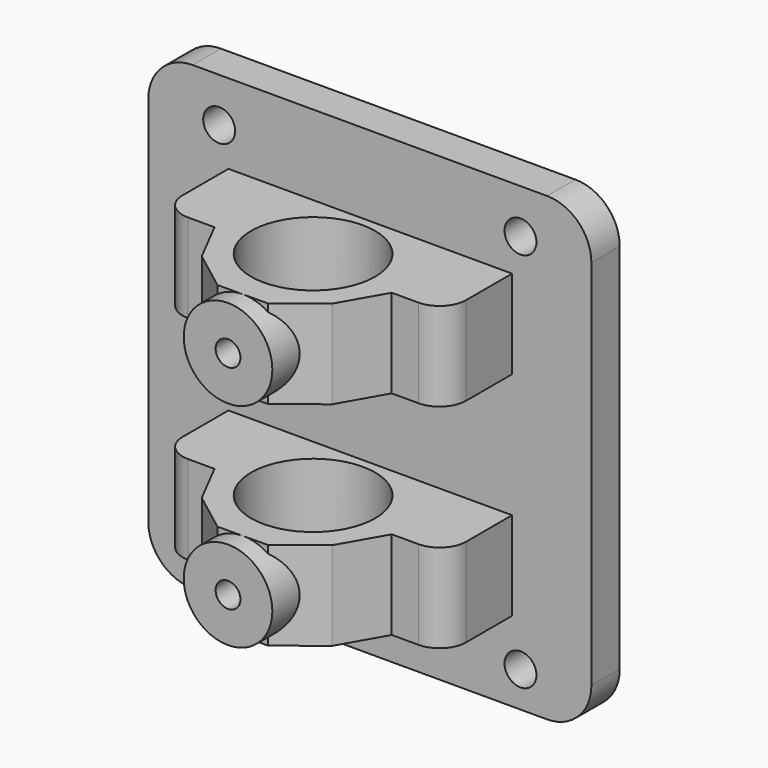
from build123d import *

# Parameters (mm, degrees)
BOX058_W                = 50
BOX058_H                = 37
BOX058_DEPTH            = 48
BOX057_W                = 59
BOX057_H                = 68
BOX057_DEPTH            = 48
BOX056_W                = 3
BOX056_H                = 6
BOX056_DEPTH            = 23
CYLINDER114_R           = 1.4
CYLINDER114_DEPTH       = 10
CYLINDER114_ROLL_ANGLE  = 90
CYLINDER116_R           = 1.4
CYLINDER116_DEPTH       = 10
CYLINDER116_ROLL_ANGLE  = 90
CYLINDER113_R           = 5
CYLINDER113_DEPTH       = 5
CYLINDER113_ROLL_ANGLE  = 90
CYLINDER112_R           = 3
CYLINDER112_DEPTH       = 180
CYLINDER112_PITCH_ANGLE = 90
PAD056_DEPTH            = 10
PAD055_DEPTH            = 10
CYLINDER110_R           = 7.5
CYLINDER110_DEPTH       = 180
CYLINDER110_PITCH_ANGLE = 90
CYLINDER111_R           = 7
CYLINDER111_DEPTH       = 120
PAD054_DEPTH            = 10
PAD053_DEPTH            = 10
BOX055_W                = 32
BOX055_H                = 23
BOX055_DEPTH            = 22
FILLET045_R             = 5
FILLET046_R             = 8
FILLET047_R             = 8
FILLET048_R             = 3
FILLET049_R             = 1
FILLET050_R             = 1
FILLET051_R             = 1
FILLET052_R             = 1
CYLINDER115_R           = 5
CYLINDER115_DEPTH       = 5
CYLINDER115_ROLL_ANGLE  = 90
BOX048_W                = 50
BOX048_H                = 37
BOX048_DEPTH            = 48
BOX046_W                = 59
BOX046_H                = 68
BOX046_DEPTH            = 48
BOX040_W                = 3
BOX040_H                = 6
BOX040_DEPTH            = 23
CYLINDER082_R           = 1.4
CYLINDER082_DEPTH       = 10
CYLINDER082_ROLL_ANGLE  = 90
CYLINDER084_R           = 1.4
CYLINDER084_DEPTH       = 10
CYLINDER084_ROLL_ANGLE  = 90
CYLINDER081_R           = 5
CYLINDER081_DEPTH       = 5
CYLINDER081_ROLL_ANGLE  = 90
CYLINDER080_R           = 3
CYLINDER080_DEPTH       = 180
CYLINDER080_PITCH_ANGLE = 90
PAD044_DEPTH            = 10
PAD043_DEPTH            = 10
CYLINDER075_R           = 7.5
CYLINDER075_DEPTH       = 180
CYLINDER075_PITCH_ANGLE = 90
CYLINDER077_R           = 7
CYLINDER077_DEPTH       = 120
PAD042_DEPTH            = 10
PAD_DEPTH               = 10
BOX039_W                = 32
BOX039_H                = 23
BOX039_DEPTH            = 22
FILLET021_R             = 5
FILLET022_R             = 8
FILLET023_R             = 8
FILLET024_R             = 3
FILLET025_R             = 1
FILLET026_R             = 1
FILLET027_R             = 1
FILLET028_R             = 1
CYLINDER083_R           = 5
CYLINDER083_DEPTH       = 5
CYLINDER083_ROLL_ANGLE  = 90
CYLINDER103_R           = 1.8
CYLINDER103_DEPTH       = 34
CYLINDER103_ROLL_ANGLE  = 90
CYLINDER102_R           = 1.8
CYLINDER102_DEPTH       = 34
CYLINDER102_ROLL_ANGLE  = 90
CYLINDER105_R           = 1.8
CYLINDER105_DEPTH       = 34
CYLINDER105_ROLL_ANGLE  = 90
CYLINDER104_R           = 1.8
CYLINDER104_DEPTH       = 34
CYLINDER104_ROLL_ANGLE  = 90
BOX053_W                = 50
BOX053_H                = 4
BOX053_DEPTH            = 52
FILLET053_R             = 5


with BuildPart() as cubo053:
    # Box058 → Box058 (new body)
    with BuildSketch(Plane(origin=(8, -47, 80), x_dir=(1, 0, 0), z_dir=(0, 0, 1))):
        with Locations((25, 18.5)):
            Rectangle(BOX058_W, BOX058_H)
    extrude(amount=BOX058_DEPTH)


with BuildPart() as cubo052:
    # Box057 → Box057 (new body)
    with BuildSketch(Plane(origin=(0, -19, 64), x_dir=(1, 0, 0), z_dir=(0, 0, 1))):
        with Locations((29.5, 34)):
            Rectangle(BOX057_W, BOX057_H)
    extrude(amount=BOX057_DEPTH)


with BuildPart() as cubo051:
    # Box056 → Box056 (new body)
    with BuildSketch(Plane(origin=(17, -11, 79), x_dir=(1, 0, 0), z_dir=(0, 0, 1))):
        with Locations((1.5, 3)):
            Rectangle(BOX056_W, BOX056_H)
    extrude(amount=BOX056_DEPTH)


with BuildPart() as cilindro068:
    # Cylinder114 → Cylinder114 (new body)
    with BuildSketch(Plane.XY):
        Circle(CYLINDER114_R)
    extrude(amount=CYLINDER114_DEPTH)


with BuildPart() as cilindro068_1:
    # Cylinder114 roll: moved
    add(cilindro068.part.rotate(Axis((0, 0, 0), (1, 0, 0)), CYLINDER114_ROLL_ANGLE))


with BuildPart() as cilindro068_2:
    # Cylinder114 placement: moved
    add(cilindro068_1.part.moved(Location((33, -27, 105))))


with BuildPart() as cilindro070:
    # Cylinder116 → Cylinder116 (new body)
    with BuildSketch(Plane.XY):
        Circle(CYLINDER116_R)
    extrude(amount=CYLINDER116_DEPTH)


with BuildPart() as cilindro070_1:
    # Cylinder116 roll: moved
    add(cilindro070.part.rotate(Axis((0, 0, 0), (1, 0, 0)), CYLINDER116_ROLL_ANGLE))


with BuildPart() as cilindro070_2:
    # Cylinder116 placement: moved
    add(cilindro070_1.part.moved(Location((33, -27, 75))))


with BuildPart() as cilindro067:
    # Cylinder113 → Cylinder113 (new body)
    with BuildSketch(Plane.XY):
        Circle(CYLINDER113_R)
    extrude(amount=CYLINDER113_DEPTH)


with BuildPart() as cilindro067_1:
    # Cylinder113 roll: moved
    add(cilindro067.part.rotate(Axis((0, 0, 0), (1, 0, 0)), CYLINDER113_ROLL_ANGLE))


with BuildPart() as cilindro067_2:
    # Cylinder113 placement: moved
    add(cilindro067_1.part.moved(Location((33, -31, 105))))


with BuildPart() as m033:
    # Cylinder112 → Cylinder112 (new body)
    with BuildSketch(Plane.XY):
        Circle(CYLINDER112_R)
    extrude(amount=CYLINDER112_DEPTH)


with BuildPart() as m033_1:
    # Cylinder112 pitch: moved
    add(m033.part.rotate(Axis((0, 0, 0), (0, 1, 0)), CYLINDER112_PITCH_ANGLE))


with BuildPart() as m033_2:
    # Cylinder112 placement: moved
    add(m033_1.part.moved(Location((-12, 9, 100))))


with BuildPart() as pad056:
    # Sketch063 → Pad056 (new body)
    with BuildSketch(Plane(origin=(43, 9, 0), x_dir=(0, 1, 0), z_dir=(1, 0, 0))):
        Polygon((-4.713422, 99.981385), (-2.357765, 95.901267), (2.35355, 95.901267), (4.709208, 99.981385), (2.35355, 104.061504), (-2.357765, 104.061504), align=None)
    extrude(amount=PAD056_DEPTH)


with BuildPart() as pad055:
    # Sketch062 → Pad055 (new body)
    with BuildSketch(Plane(origin=(13, 9, 0), x_dir=(0, 1, 0), z_dir=(1, 0, 0))):
        Polygon((-4.713422, 99.981385), (-2.357765, 95.901267), (2.35355, 95.901267), (4.709208, 99.981385), (2.35355, 104.061504), (-2.357765, 104.061504), align=None)
    extrude(amount=PAD055_DEPTH)


with BuildPart() as m032:
    # Cylinder110 → Cylinder110 (new body)
    with BuildSketch(Plane.XY):
        Circle(CYLINDER110_R)
    extrude(amount=CYLINDER110_DEPTH)


with BuildPart() as m032_1:
    # Cylinder110 pitch: moved
    add(m032.part.rotate(Axis((0, 0, 0), (0, 1, 0)), CYLINDER110_PITCH_ANGLE))


with BuildPart() as m032_2:
    # Cylinder110 placement: moved
    add(m032_1.part.moved(Location((-12, 12, 80))))


with BuildPart() as cilindro066:
    # Cylinder111 → Cylinder111 (new body)
    with BuildSketch(Plane(origin=(33, -24, 41), x_dir=(1, 0, 0), z_dir=(0, 0, 1))):
        Circle(CYLINDER111_R)
    extrude(amount=CYLINDER111_DEPTH)


with BuildPart() as pad054:
    # Sketch061 → Pad054 (new body)
    with BuildSketch(Plane.XY.offset(100)):
        Polygon((23.049006, -25.471541), (25.637042, -30.500033), (30.141413, -33.919727), (35.796642, -33.874552), (40.245807, -30.383337), (43.049006, -25.471541), (49.049006, -25.471541), (49.049006, 22.988138), (17.049006, 22.988138), (17.049006, -25.471541), align=None)
        with BuildLine():
            ThreePointArc((26.014116, -2.124694), (20.116872, -8.021937), (26.014116, -13.919181))
            Line((26.014116, -13.919181), (40.6833, -13.919181))
            ThreePointArc((40.6833, -13.919181), (46.580544, -8.021937), (40.6833, -2.124694))
            Line((26.014116, -2.124694), (40.6833, -2.124694))
        make_face(mode=Mode.SUBTRACT)
    extrude(amount=PAD054_DEPTH)


with BuildPart() as pad053:
    # Sketch060 → Pad053 (new body)
    with BuildSketch(Plane.XY.offset(70)):
        Polygon((23.049006, -25.471541), (25.637042, -30.500033), (30.141413, -33.919727), (35.796642, -33.874552), (40.245807, -30.383337), (43.049006, -25.471541), (49.049006, -25.471541), (49.049006, 22.988138), (17.049006, 22.988138), (17.049006, -25.471541), align=None)
        with BuildLine():
            ThreePointArc((26.014116, -2.124694), (20.116872, -8.021937), (26.014116, -13.919181))
            Line((26.014116, -13.919181), (40.6833, -13.919181))
            ThreePointArc((40.6833, -13.919181), (46.580544, -8.021937), (40.6833, -2.124694))
            Line((26.014116, -2.124694), (40.6833, -2.124694))
        make_face(mode=Mode.SUBTRACT)
    extrude(amount=PAD053_DEPTH)


with BuildPart() as fillet052:
    # Box055 → Box055 (new body)
    with BuildSketch(Plane(origin=(17, 0, 79), x_dir=(1, 0, 0), z_dir=(0, 0, 1))):
        with Locations((16, 11.5)):
            Rectangle(BOX055_W, BOX055_H)
    extrude(amount=BOX055_DEPTH)

    # Fusion062: union Pad054, Pad053
    add(pad054.part)
    add(pad053.part)

    # Cut127: cut Cilindro066
    add(cilindro066.part, mode=Mode.SUBTRACT)

    # Cut128: cut M032
    add(m032_2.part, mode=Mode.SUBTRACT)

    # Fillet045
    fillet045_edges = [fillet052.edges().sort_by_distance(p)[0] for p in [
        (33.348708, -2.124694, 100),
    ]]
    fillet(fillet045_edges, radius=FILLET045_R)

    # Fillet046
    fillet046_edges = [fillet052.edges().sort_by_distance(p)[0] for p in [
        (33.049006, 22.988138, 110),
    ]]
    fillet(fillet046_edges, radius=FILLET046_R)

    # Fillet047
    fillet047_edges = [fillet052.edges().sort_by_distance(p)[0] for p in [
        (33.049006, 22.988138, 70),
    ]]
    fillet(fillet047_edges, radius=FILLET047_R)

    # Fillet048
    fillet048_edges = [fillet052.edges().sort_by_distance(p)[0] for p in [
        (17.049006, -25.471541, 75),
        (49.049006, -25.471541, 75),
        (17.049006, -25.471541, 105),
        (49.049006, -25.471541, 105),
    ]]
    fillet(fillet048_edges, radius=FILLET048_R)

    # Fillet049
    fillet049_edges = [fillet052.edges().sort_by_distance(p)[0] for p in [
        (20.116872, -8.021937, 110),
    ]]
    fillet(fillet049_edges, radius=FILLET049_R)

    # Fillet050
    fillet050_edges = [fillet052.edges().sort_by_distance(p)[0] for p in [
        (46.580544, -8.021937, 80),
    ]]
    fillet(fillet050_edges, radius=FILLET050_R)

    # Fillet051
    fillet051_edges = [fillet052.edges().sort_by_distance(p)[0] for p in [
        (46.580544, -8.021937, 70),
    ]]
    fillet(fillet051_edges, radius=FILLET051_R)

    # Cut129: cut Pad055
    add(pad055.part, mode=Mode.SUBTRACT)

    # Cut130: cut Pad056
    add(pad056.part, mode=Mode.SUBTRACT)

    # Cut131: cut M033
    add(m033_2.part, mode=Mode.SUBTRACT)

    # Fillet052
    fillet052_edges = [fillet052.edges().sort_by_distance(p)[0] for p in [
        (33.024503, 0, 80),
    ]]
    fillet(fillet052_edges, radius=FILLET052_R)


with BuildPart() as cut135:
    # Cylinder115 → Cylinder115 (new body)
    with BuildSketch(Plane.XY):
        Circle(CYLINDER115_R)
    extrude(amount=CYLINDER115_DEPTH)


with BuildPart() as cut135_1:
    # Cylinder115 roll: moved
    add(cut135.part.rotate(Axis((0, 0, 0), (1, 0, 0)), CYLINDER115_ROLL_ANGLE))


with BuildPart() as cut135_2:
    # Cylinder115 placement: moved
    add(cut135_1.part.moved(Location((33, -31, 75))))

    # Fusion063: union Cilindro067, Fillet052
    add(cilindro067_2.part)
    add(fillet052.part)

    # Cut132: cut Cilindro070
    add(cilindro070_2.part, mode=Mode.SUBTRACT)

    # Cut133: cut Cilindro068
    add(cilindro068_2.part, mode=Mode.SUBTRACT)

    # Fusion064: union Cubo051
    add(cubo051.part)


with BuildPart() as cut135_3:
    # Fusion064 placement: moved
    add(cut135_2.part.moved(Location((0, -4, -2))))

    # Cut134: cut Cubo052
    add(cubo052.part, mode=Mode.SUBTRACT)


with BuildPart() as cut135_4:
    # Cut134 placement: moved
    add(cut135_3.part.moved(Location((0, -3, 0))))

    # Cut135: cut Cubo053
    add(cubo053.part, mode=Mode.SUBTRACT)


with BuildPart() as cut135_5:
    # Cut135 placement: moved
    add(cut135_4.part.moved(Location((0, 0, 24))))


with BuildPart() as cubo043:
    # Box048 → Box048 (new body)
    with BuildSketch(Plane(origin=(8, -47, 80), x_dir=(1, 0, 0), z_dir=(0, 0, 1))):
        with Locations((25, 18.5)):
            Rectangle(BOX048_W, BOX048_H)
    extrude(amount=BOX048_DEPTH)


with BuildPart() as cubo041:
    # Box046 → Box046 (new body)
    with BuildSketch(Plane(origin=(0, -19, 64), x_dir=(1, 0, 0), z_dir=(0, 0, 1))):
        with Locations((29.5, 34)):
            Rectangle(BOX046_W, BOX046_H)
    extrude(amount=BOX046_DEPTH)


with BuildPart() as cubo035:
    # Box040 → Box040 (new body)
    with BuildSketch(Plane(origin=(17, -11, 79), x_dir=(1, 0, 0), z_dir=(0, 0, 1))):
        with Locations((1.5, 3)):
            Rectangle(BOX040_W, BOX040_H)
    extrude(amount=BOX040_DEPTH)


with BuildPart() as cilindro044:
    # Cylinder082 → Cylinder082 (new body)
    with BuildSketch(Plane.XY):
        Circle(CYLINDER082_R)
    extrude(amount=CYLINDER082_DEPTH)


with BuildPart() as cilindro044_1:
    # Cylinder082 roll: moved
    add(cilindro044.part.rotate(Axis((0, 0, 0), (1, 0, 0)), CYLINDER082_ROLL_ANGLE))


with BuildPart() as cilindro044_2:
    # Cylinder082 placement: moved
    add(cilindro044_1.part.moved(Location((33, -27, 105))))


with BuildPart() as cilindro046:
    # Cylinder084 → Cylinder084 (new body)
    with BuildSketch(Plane.XY):
        Circle(CYLINDER084_R)
    extrude(amount=CYLINDER084_DEPTH)


with BuildPart() as cilindro046_1:
    # Cylinder084 roll: moved
    add(cilindro046.part.rotate(Axis((0, 0, 0), (1, 0, 0)), CYLINDER084_ROLL_ANGLE))


with BuildPart() as cilindro046_2:
    # Cylinder084 placement: moved
    add(cilindro046_1.part.moved(Location((33, -27, 75))))


with BuildPart() as cilindro043:
    # Cylinder081 → Cylinder081 (new body)
    with BuildSketch(Plane.XY):
        Circle(CYLINDER081_R)
    extrude(amount=CYLINDER081_DEPTH)


with BuildPart() as cilindro043_1:
    # Cylinder081 roll: moved
    add(cilindro043.part.rotate(Axis((0, 0, 0), (1, 0, 0)), CYLINDER081_ROLL_ANGLE))


with BuildPart() as cilindro043_2:
    # Cylinder081 placement: moved
    add(cilindro043_1.part.moved(Location((33, -31, 105))))


with BuildPart() as m028:
    # Cylinder080 → Cylinder080 (new body)
    with BuildSketch(Plane.XY):
        Circle(CYLINDER080_R)
    extrude(amount=CYLINDER080_DEPTH)


with BuildPart() as m028_1:
    # Cylinder080 pitch: moved
    add(m028.part.rotate(Axis((0, 0, 0), (0, 1, 0)), CYLINDER080_PITCH_ANGLE))


with BuildPart() as m028_2:
    # Cylinder080 placement: moved
    add(m028_1.part.moved(Location((-12, 9, 100))))


with BuildPart() as pad044:
    # Sketch051 → Pad044 (new body)
    with BuildSketch(Plane(origin=(43, 9, 0), x_dir=(0, 1, 0), z_dir=(1, 0, 0))):
        Polygon((-4.713422, 99.981385), (-2.357765, 95.901267), (2.35355, 95.901267), (4.709208, 99.981385), (2.35355, 104.061504), (-2.357765, 104.061504), align=None)
    extrude(amount=PAD044_DEPTH)


with BuildPart() as pad043:
    # Sketch050 → Pad043 (new body)
    with BuildSketch(Plane(origin=(13, 9, 0), x_dir=(0, 1, 0), z_dir=(1, 0, 0))):
        Polygon((-4.713422, 99.981385), (-2.357765, 95.901267), (2.35355, 95.901267), (4.709208, 99.981385), (2.35355, 104.061504), (-2.357765, 104.061504), align=None)
    extrude(amount=PAD043_DEPTH)


with BuildPart() as m025:
    # Cylinder075 → Cylinder075 (new body)
    with BuildSketch(Plane.XY):
        Circle(CYLINDER075_R)
    extrude(amount=CYLINDER075_DEPTH)


with BuildPart() as m025_1:
    # Cylinder075 pitch: moved
    add(m025.part.rotate(Axis((0, 0, 0), (0, 1, 0)), CYLINDER075_PITCH_ANGLE))


with BuildPart() as m025_2:
    # Cylinder075 placement: moved
    add(m025_1.part.moved(Location((-12, 12, 80))))


with BuildPart() as cilindro042:
    # Cylinder077 → Cylinder077 (new body)
    with BuildSketch(Plane(origin=(33, -24, 41), x_dir=(1, 0, 0), z_dir=(0, 0, 1))):
        Circle(CYLINDER077_R)
    extrude(amount=CYLINDER077_DEPTH)


with BuildPart() as pad042:
    # Sketch048 → Pad042 (new body)
    with BuildSketch(Plane.XY.offset(100)):
        Polygon((23.049006, -25.471541), (25.637042, -30.500033), (30.141413, -33.919727), (35.796642, -33.874552), (40.245807, -30.383337), (43.049006, -25.471541), (49.049006, -25.471541), (49.049006, 22.988138), (17.049006, 22.988138), (17.049006, -25.471541), align=None)
        with BuildLine():
            ThreePointArc((26.014116, -2.124694), (20.116872, -8.021937), (26.014116, -13.919181))
            Line((26.014116, -13.919181), (40.6833, -13.919181))
            ThreePointArc((40.6833, -13.919181), (46.580544, -8.021937), (40.6833, -2.124694))
            Line((26.014116, -2.124694), (40.6833, -2.124694))
        make_face(mode=Mode.SUBTRACT)
    extrude(amount=PAD042_DEPTH)


with BuildPart() as pad:
    # Sketch → Pad (new body)
    with BuildSketch(Plane.XY.offset(70)):
        Polygon((23.049006, -25.471541), (25.637042, -30.500033), (30.141413, -33.919727), (35.796642, -33.874552), (40.245807, -30.383337), (43.049006, -25.471541), (49.049006, -25.471541), (49.049006, 22.988138), (17.049006, 22.988138), (17.049006, -25.471541), align=None)
        with BuildLine():
            ThreePointArc((26.014116, -2.124694), (20.116872, -8.021937), (26.014116, -13.919181))
            Line((26.014116, -13.919181), (40.6833, -13.919181))
            ThreePointArc((40.6833, -13.919181), (46.580544, -8.021937), (40.6833, -2.124694))
            Line((26.014116, -2.124694), (40.6833, -2.124694))
        make_face(mode=Mode.SUBTRACT)
    extrude(amount=PAD_DEPTH)


with BuildPart() as fillet028:
    # Box039 → Box039 (new body)
    with BuildSketch(Plane(origin=(17, 0, 79), x_dir=(1, 0, 0), z_dir=(0, 0, 1))):
        with Locations((16, 11.5)):
            Rectangle(BOX039_W, BOX039_H)
    extrude(amount=BOX039_DEPTH)

    # Fusion041: union Pad042, Pad
    add(pad042.part)
    add(pad.part)

    # Cut100: cut Cilindro042
    add(cilindro042.part, mode=Mode.SUBTRACT)

    # Cut101: cut M025
    add(m025_2.part, mode=Mode.SUBTRACT)

    # Fillet021
    fillet021_edges = [fillet028.edges().sort_by_distance(p)[0] for p in [
        (33.348708, -2.124694, 100),
    ]]
    fillet(fillet021_edges, radius=FILLET021_R)

    # Fillet022
    fillet022_edges = [fillet028.edges().sort_by_distance(p)[0] for p in [
        (33.049006, 22.988138, 110),
    ]]
    fillet(fillet022_edges, radius=FILLET022_R)

    # Fillet023
    fillet023_edges = [fillet028.edges().sort_by_distance(p)[0] for p in [
        (33.049006, 22.988138, 70),
    ]]
    fillet(fillet023_edges, radius=FILLET023_R)

    # Fillet024
    fillet024_edges = [fillet028.edges().sort_by_distance(p)[0] for p in [
        (17.049006, -25.471541, 75),
        (49.049006, -25.471541, 75),
        (17.049006, -25.471541, 105),
        (49.049006, -25.471541, 105),
    ]]
    fillet(fillet024_edges, radius=FILLET024_R)

    # Fillet025
    fillet025_edges = [fillet028.edges().sort_by_distance(p)[0] for p in [
        (20.116872, -8.021937, 110),
    ]]
    fillet(fillet025_edges, radius=FILLET025_R)

    # Fillet026
    fillet026_edges = [fillet028.edges().sort_by_distance(p)[0] for p in [
        (46.580544, -8.021937, 80),
    ]]
    fillet(fillet026_edges, radius=FILLET026_R)

    # Fillet027
    fillet027_edges = [fillet028.edges().sort_by_distance(p)[0] for p in [
        (46.580544, -8.021937, 70),
    ]]
    fillet(fillet027_edges, radius=FILLET027_R)

    # Cut102: cut Pad043
    add(pad043.part, mode=Mode.SUBTRACT)

    # Cut103: cut Pad044
    add(pad044.part, mode=Mode.SUBTRACT)

    # Cut104: cut M028
    add(m028_2.part, mode=Mode.SUBTRACT)

    # Fillet028
    fillet028_edges = [fillet028.edges().sort_by_distance(p)[0] for p in [
        (33.024503, 0, 80),
    ]]
    fillet(fillet028_edges, radius=FILLET028_R)


with BuildPart() as cut122:
    # Cylinder083 → Cylinder083 (new body)
    with BuildSketch(Plane.XY):
        Circle(CYLINDER083_R)
    extrude(amount=CYLINDER083_DEPTH)


with BuildPart() as cut122_1:
    # Cylinder083 roll: moved
    add(cut122.part.rotate(Axis((0, 0, 0), (1, 0, 0)), CYLINDER083_ROLL_ANGLE))


with BuildPart() as cut122_2:
    # Cylinder083 placement: moved
    add(cut122_1.part.moved(Location((33, -31, 75))))

    # Fusion042: union Cilindro043, Fillet028
    add(cilindro043_2.part)
    add(fillet028.part)

    # Cut105: cut Cilindro046
    add(cilindro046_2.part, mode=Mode.SUBTRACT)

    # Cut106: cut Cilindro044
    add(cilindro044_2.part, mode=Mode.SUBTRACT)

    # Fusion043: union Cubo035
    add(cubo035.part)


with BuildPart() as cut122_3:
    # Fusion043 placement: moved
    add(cut122_2.part.moved(Location((0, -4, -2))))

    # Cut121: cut Cubo041
    add(cubo041.part, mode=Mode.SUBTRACT)


with BuildPart() as cut122_4:
    # Cut121 placement: moved
    add(cut122_3.part.moved(Location((0, -3, 0))))

    # Cut122: cut Cubo043
    add(cubo043.part, mode=Mode.SUBTRACT)


with BuildPart() as cilindro059:
    # Cylinder103 → Cylinder103 (new body)
    with BuildSketch(Plane.XY):
        Circle(CYLINDER103_R)
    extrude(amount=CYLINDER103_DEPTH)


with BuildPart() as cilindro059_1:
    # Cylinder103 roll: moved
    add(cilindro059.part.rotate(Axis((0, 0, 0), (1, 0, 0)), CYLINDER103_ROLL_ANGLE))


with BuildPart() as cilindro059_2:
    # Cylinder103 placement: moved
    add(cilindro059_1.part.moved(Location((16, -10, 63))))


with BuildPart() as fusion056:
    # Cylinder102 → Cylinder102 (new body)
    with BuildSketch(Plane.XY):
        Circle(CYLINDER102_R)
    extrude(amount=CYLINDER102_DEPTH)


with BuildPart() as fusion056_1:
    # Cylinder102 roll: moved
    add(fusion056.part.rotate(Axis((0, 0, 0), (1, 0, 0)), CYLINDER102_ROLL_ANGLE))


with BuildPart() as fusion056_2:
    # Cylinder102 placement: moved
    add(fusion056_1.part.moved(Location((50, -10, 63))))

    # Fusion056: union Cilindro059
    add(cilindro059_2.part)


with BuildPart() as cilindro061:
    # Cylinder105 → Cylinder105 (new body)
    with BuildSketch(Plane.XY):
        Circle(CYLINDER105_R)
    extrude(amount=CYLINDER105_DEPTH)


with BuildPart() as cilindro061_1:
    # Cylinder105 roll: moved
    add(cilindro061.part.rotate(Axis((0, 0, 0), (1, 0, 0)), CYLINDER105_ROLL_ANGLE))


with BuildPart() as cilindro061_2:
    # Cylinder105 placement: moved
    add(cilindro061_1.part.moved(Location((16, -10, 63))))


with BuildPart() as fusion058:
    # Cylinder104 → Cylinder104 (new body)
    with BuildSketch(Plane.XY):
        Circle(CYLINDER104_R)
    extrude(amount=CYLINDER104_DEPTH)


with BuildPart() as fusion058_1:
    # Cylinder104 roll: moved
    add(fusion058.part.rotate(Axis((0, 0, 0), (1, 0, 0)), CYLINDER104_ROLL_ANGLE))


with BuildPart() as fusion058_2:
    # Cylinder104 placement: moved
    add(fusion058_1.part.moved(Location((50, -10, 63))))

    # Fusion057: union Cilindro061
    add(cilindro061_2.part)


with BuildPart() as fusion058_3:
    # Fusion057 placement: moved
    add(fusion058_2.part.moved(Location((0, 0, 43))))

    # Fusion058: union Fusion056
    add(fusion056_2.part)


with BuildPart() as laserpen:
    # Box053 → Box053 (new body)
    with BuildSketch(Plane(origin=(8, -23, 59), x_dir=(1, 0, 0), z_dir=(0, 0, 1))):
        with Locations((25, 2)):
            Rectangle(BOX053_W, BOX053_H)
    extrude(amount=BOX053_DEPTH)

    # Cut125: cut Fusion058
    add(fusion058_3.part, mode=Mode.SUBTRACT)

    # Fusion065: union Cut135, Cut122
    add(cut135_5.part)
    add(cut122_4.part)

    # Fillet053
    fillet053_edges = [laserpen.edges().sort_by_distance(p)[0] for p in [
        (8, -21, 111),
        (8, -21, 59),
        (58, -21, 111),
        (58, -21, 59),
    ]]
    fillet(fillet053_edges, radius=FILLET053_R)


solid = laserpen.part
